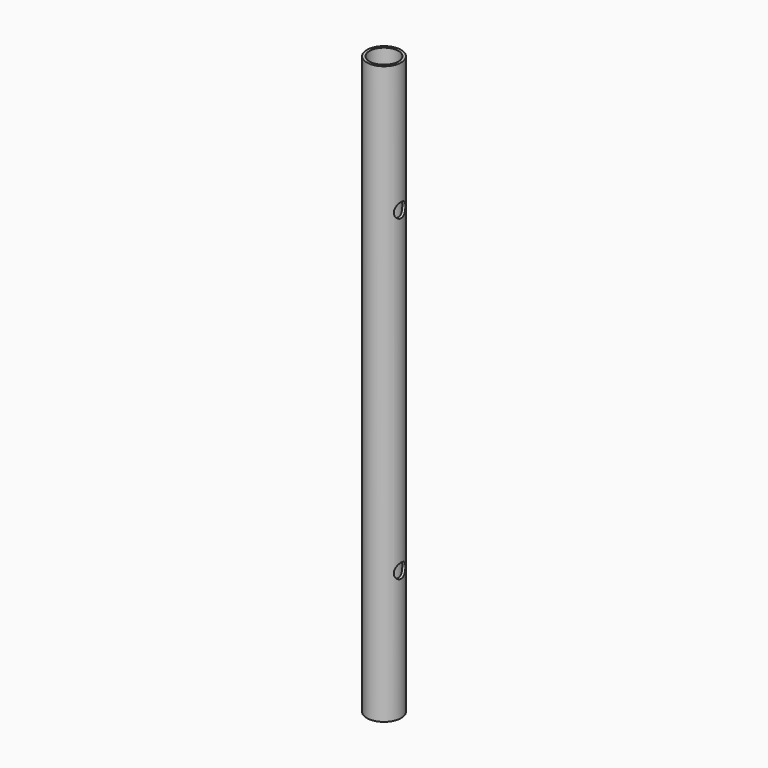
from build123d import *

# Parameters (mm, degrees)
F0_R          = 30.1625
F0_R_2        = 25.4
F1_DEPTH      = 1016
F2_R          = 12.7
F3_DEPTH      = 31.1625001
F3_DEPTH_BACK = 31.1625001


with BuildPart() as f1:
    # F0 (on Top) → F1 (new body)
    with BuildSketch(Plane.XY):
        Circle(F0_R)
        Circle(F0_R_2, mode=Mode.SUBTRACT)
    extrude(amount=F1_DEPTH)

    # F2 (on Right) → F3 (cut, two sides)
    with BuildSketch(Plane.YZ) as f3_sk:
        with Locations((0, 228.6)):
            Circle(F2_R)
        with Locations((0, 787.4)):
            Circle(F2_R)
    extrude(amount=F3_DEPTH, mode=Mode.SUBTRACT)
    extrude(f3_sk.sketch, amount=-F3_DEPTH_BACK, mode=Mode.SUBTRACT)


solid = f1.part
